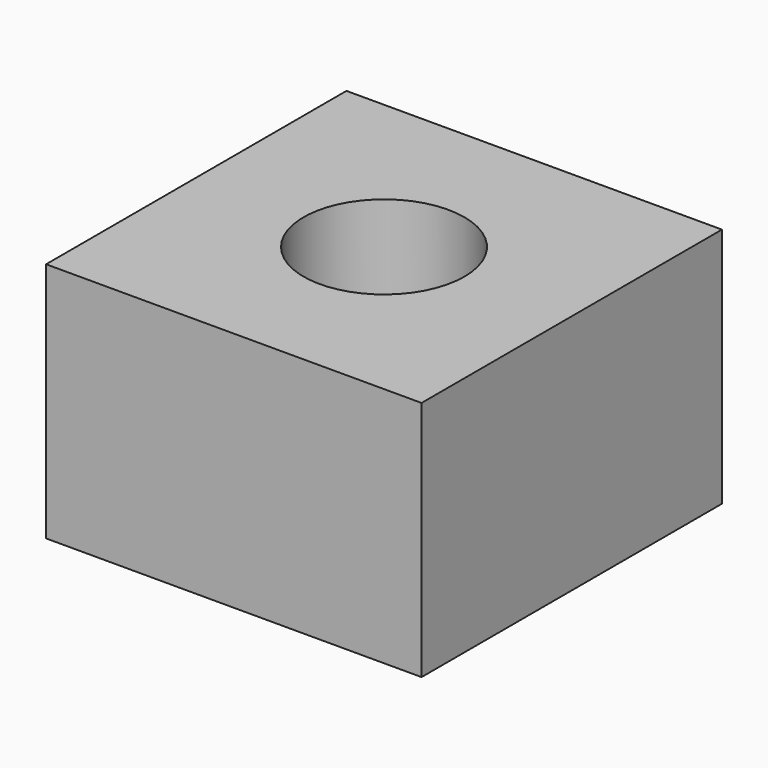
from build123d import *

# Parameters (mm, degrees)
CYLINDER_R     = 1.5
CYLINDER_DEPTH = 10
BOX008_W       = 7
BOX008_H       = 7
BOX008_DEPTH   = 4.5


with BuildPart() as hole:
    # Cylinder → Cylinder (new body)
    with BuildSketch(Plane.XY):
        Circle(CYLINDER_R)
    extrude(amount=CYLINDER_DEPTH)


with BuildPart() as stand_hole_cut:
    # Box008 → Box008 (new body)
    with BuildSketch(Plane(origin=(-3.5, -3.5, 0), x_dir=(1, 0, 0), z_dir=(0, 0, 1))):
        with Locations((3.5, 3.5)):
            Rectangle(BOX008_W, BOX008_H)
    extrude(amount=BOX008_DEPTH)

    # Cut003002: cut hole
    add(hole.part, mode=Mode.SUBTRACT)


solid = stand_hole_cut.part
